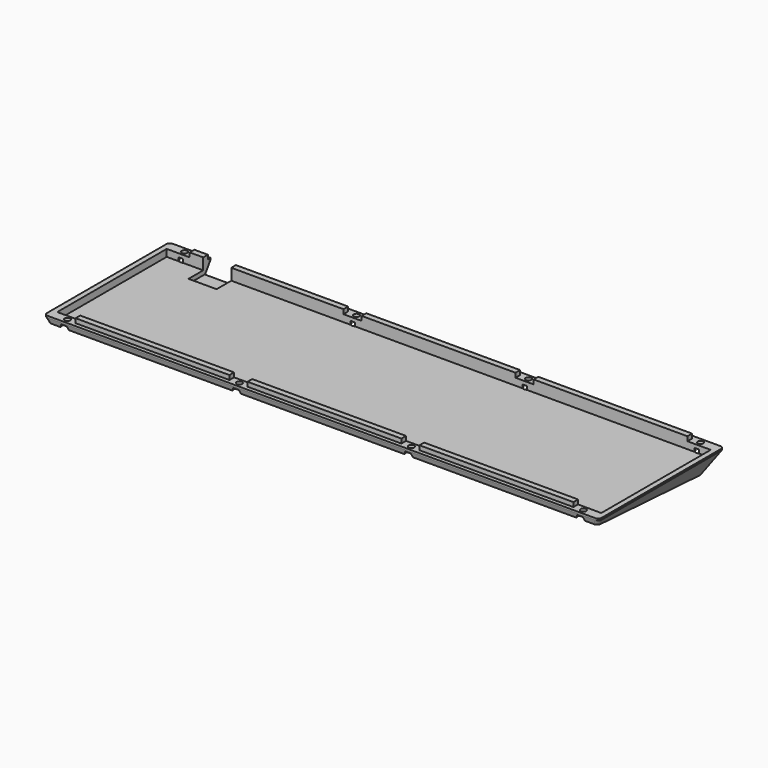
from build123d import *

# Parameters (mm, degrees)
PAD002_DEPTH    = 1
SKETCH004_W     = 310
SKETCH004_H     = 77.95
POCKET_DEPTH    = 17
SKETCH008_R     = 1.6
POCKET010_DEPTH = 2
SKETCH009_R     = 3
POCKET011_DEPTH = 15
SKETCH022_W     = 87.7
SKETCH022_H     = 3.3
PAD003_DEPTH    = 2.5
SKETCH079_W     = 16
SKETCH079_H     = 20
POCKET053_DEPTH = 5.5
FILLET001_R     = 0.5


with BuildPart() as part:
    # Sketch021 → Pad002 (new body)
    with BuildSketch(Plane.XY.offset(1)):
        with BuildLine():
            Line((-156, 44.5), (156, 44.5))
            ThreePointArc((158, 42.5), (157.414214, 43.914214), (156, 44.5))
            Line((158, 42.5), (158, -42.5))
            ThreePointArc((156, -44.5), (157.414214, -43.914214), (158, -42.5))
            Line((156, -44.5), (-156, -44.5))
            ThreePointArc((-158, -42.5), (-157.414214, -43.914214), (-156, -44.5))
            Line((-158, -42.5), (-158, 42.5))
            ThreePointArc((-156, 44.5), (-157.414214, 43.914214), (-158, 42.5))
        make_face()
    extrude(amount=PAD002_DEPTH)

    # Sketch002 → AdditiveLoft section 0
    with BuildSketch(Plane(origin=(0, -0.36, -6.4), x_dir=(1, 0, 0), z_dir=(0, 0.104528, 0.994522))):
        with BuildLine():
            Line((154.5, -43.5), (-154.5, -43.5))
            ThreePointArc((-156.496582, -41.38313), (-155.954947, -42.872272), (-154.5, -43.5))
            Line((-151.989368, 35.61687), (-156.496582, -41.38313))
            ThreePointArc((-149.992786, 37.5), (-151.365058, 36.954947), (-151.989368, 35.61687))
            Line((149.992786, 37.5), (-149.992786, 37.5))
            ThreePointArc((151.989368, 35.61687), (151.365058, 36.954947), (149.992786, 37.5))
            Line((156.496582, -41.38313), (151.989368, 35.61687))
            ThreePointArc((154.5, -43.5), (155.954947, -42.872272), (156.496582, -41.38313))
        make_face()
    # Sketch003 → AdditiveLoft section 1
    with BuildSketch(Plane.XY.offset(1)):
        with BuildLine():
            Line((-156, 44.5), (156, 44.5))
            ThreePointArc((158, 42.5), (157.414214, 43.914214), (156, 44.5))
            Line((158, 42.5), (158, -42.5))
            ThreePointArc((156, -44.5), (157.414214, -43.914214), (158, -42.5))
            Line((156, -44.5), (-156, -44.5))
            ThreePointArc((-158, -42.5), (-157.414214, -43.914214), (-156, -44.5))
            Line((-158, -42.5), (-158, 42.5))
            ThreePointArc((-156, 44.5), (-157.414214, 43.914214), (-158, 42.5))
        make_face()
    loft()

    # Sketch004 → Pocket (cut)
    with BuildSketch(Plane.XY.offset(15)):
        Rectangle(SKETCH004_W, SKETCH004_H)
    extrude(amount=-POCKET_DEPTH, mode=Mode.SUBTRACT)

    # Sketch008 → Pocket010 (cut)
    with BuildSketch(Plane.XY.offset(2)):
        with Locations((-147, 41.7)):
            Circle(SKETCH008_R)
        with Locations((-49, 41.7)):
            Circle(SKETCH008_R)
        with Locations((49, 41.7)):
            Circle(SKETCH008_R)
        with Locations((147, 41.7)):
            Circle(SKETCH008_R)
        with Locations((-147, -41.7)):
            Circle(SKETCH008_R)
        with Locations((-49, -41.7)):
            Circle(SKETCH008_R)
        with Locations((49, -41.7)):
            Circle(SKETCH008_R)
        with Locations((147, -41.7)):
            Circle(SKETCH008_R)
    extrude(amount=-POCKET010_DEPTH, mode=Mode.SUBTRACT)

    # Sketch009 → Pocket011 (cut)
    with BuildSketch(Plane.XY):
        with Locations((-147, 41.7)):
            Circle(SKETCH009_R)
        with Locations((-49, 41.7)):
            Circle(SKETCH009_R)
        with Locations((49, 41.7)):
            Circle(SKETCH009_R)
        with Locations((147, 41.7)):
            Circle(SKETCH009_R)
        with Locations((-147, -41.7)):
            Circle(SKETCH009_R)
        with Locations((-49, -41.7)):
            Circle(SKETCH009_R)
        with Locations((49, -41.7)):
            Circle(SKETCH009_R)
        with Locations((147, -41.7)):
            Circle(SKETCH009_R)
    extrude(amount=-POCKET011_DEPTH, mode=Mode.SUBTRACT)

    # Sketch022 → Pad003 (join)
    with BuildSketch(Plane.XY.offset(2)):
        with Locations((-98.1, 40.625)):
            Rectangle(SKETCH022_W, SKETCH022_H)
        with Locations((-0.1, 40.625)):
            Rectangle(SKETCH022_W, SKETCH022_H)
        with Locations((97.9, 40.625)):
            Rectangle(SKETCH022_W, SKETCH022_H)
        with Locations((-98.1, -40.625)):
            Rectangle(SKETCH022_W, SKETCH022_H)
        with Locations((-0.1, -40.625)):
            Rectangle(SKETCH022_W, SKETCH022_H)
        with Locations((97.9, -40.625)):
            Rectangle(SKETCH022_W, SKETCH022_H)
    extrude(amount=PAD003_DEPTH)

    # Sketch079 → Pocket053 (cut, symmetric)
    with BuildSketch(Plane.XY.offset(1)):
        with Locations((-126.20625, 38.5)):
            Rectangle(SKETCH079_W, SKETCH079_H)
    extrude(amount=POCKET053_DEPTH, both=True, mode=Mode.SUBTRACT)

    # Fillet001
    fillet001_edges = [part.edges().sort_by_distance(p)[0] for p in [
        (-126.20625, 40.824158, -4.5),
        (-118.20625, 42.662079, -1.75),
        (-134.20625, 42.662079, -1.75),
        (-134.20625, 44.5, 1.5),
        (-118.20625, 44.5, 1.5),
    ]]
    fillet(fillet001_edges, radius=FILLET001_R)


solid = part.part
